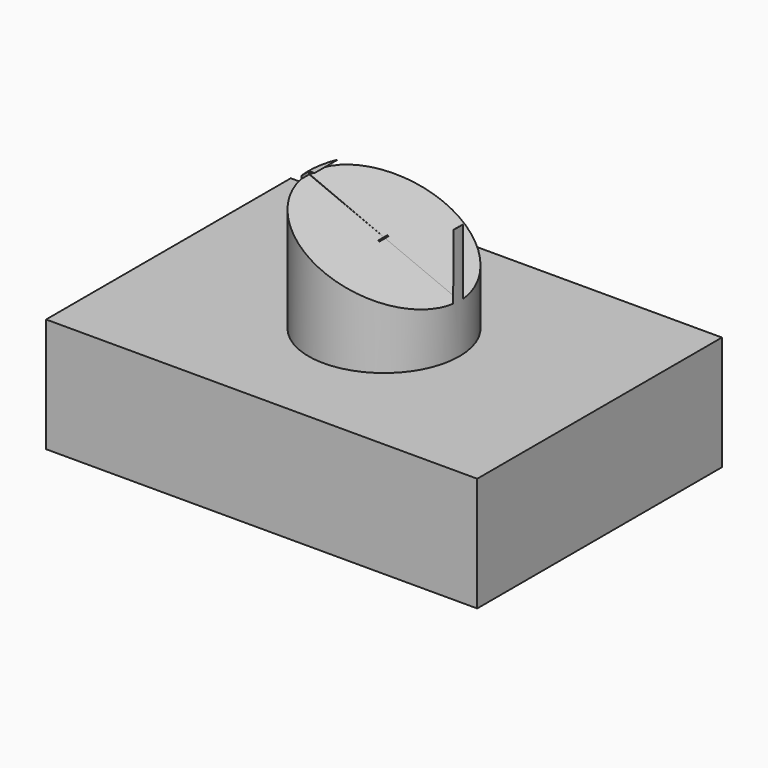
from build123d import *

# Parameters (mm, degrees)
F0_W      = 95.881224
F0_H      = 68.022564
F0_R      = 16.769473
F1_DEPTH  = 25.4
F2_DEPTH  = 50.8
F4_DEPTH  = 25.4
F6_DEPTH  = 25.4
F8_DEPTH  = 0.254
F10_DEPTH = 0.0254


with BuildPart() as f1:
    # F0 (on Top) → F1 (new body)
    with BuildSketch(Plane.XY):
        Rectangle(F0_W, F0_H)
        Circle(F0_R, mode=Mode.SUBTRACT)
    extrude(amount=F1_DEPTH)

    # F0 (on Top) → F2 (join)
    with BuildSketch(Plane.XY):
        Circle(F0_R)
    extrude(amount=F2_DEPTH)

    # F3 (on Front) → F4 (cut)
    with BuildSketch(Plane.XZ):
        with BuildLine():
            ThreePointArc((16.7397, 50.897755), (-0.044019, 53.808078), (-16.71098, 50.290175))
            Line((-16.71098, 50.290175), (16.7397, 36.212575))
            Line((16.7397, 36.212575), (16.7397, 50.897755))
        make_face()
    extrude(amount=-F4_DEPTH, mode=Mode.SUBTRACT)

    # F5 (on Front) → F6 (cut)
    with BuildSketch(Plane.XZ):
        Polygon((-16.633531, 50.150838), (16.688788, 36.337622), (16.700679, 50.800726), (-16.633531, 50.828132), align=None)
    extrude(amount=F6_DEPTH, mode=Mode.SUBTRACT)

    # F7 (on Right) → F8 (cut)
    with BuildSketch(Plane.YZ):
        Polygon((-1.459569, 50.8672), (-1.681041, 36.348537), (0.976613, 36.348537), (0.976613, 50.8672), align=None)
    extrude(amount=F8_DEPTH, mode=Mode.SUBTRACT)

    # F9 (on Right) → F10 (cut)
    with BuildSketch(Plane.YZ):
        Polygon((-1.541382, 50.746284), (-1.648819, 36.371183), (0.972651, 36.371183), (0.972651, 50.746284), align=None)
    extrude(amount=-F10_DEPTH, mode=Mode.SUBTRACT)


solid = f1.part
